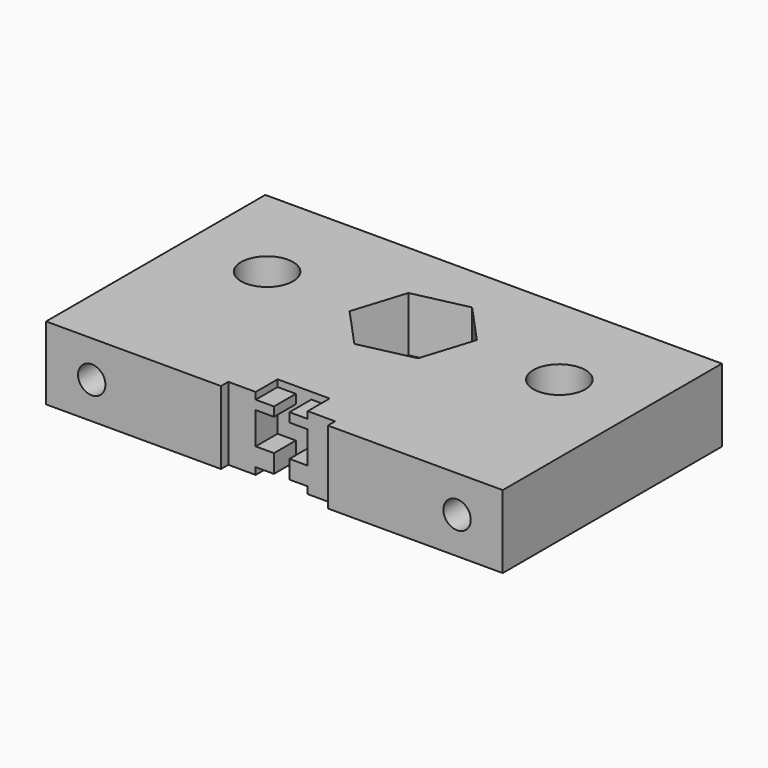
from build123d import *

# Parameters (mm, degrees)
F0_W      = 50
F0_H      = 30
F1_DEPTH  = 8
F2_R      = 2.85
F3_DEPTH  = 8
F4_R      = 1.5
F5_DEPTH  = 3
F6_DEPTH  = 4
F7_DEPTH  = 1
F8_R      = 6.75
F9_DEPTH  = 2
F11_DEPTH = 6


with BuildPart() as f1:
    # F0 (on Top) → F1 (new body)
    with BuildSketch(Plane.XY):
        with Locations((25, 15)):
            Rectangle(F0_W, F0_H)
    extrude(amount=F1_DEPTH)

    # F2 (on face) → F3 (cut)
    with BuildSketch(Plane.XY.offset(8)):
        with Locations((41, 19)):
            Circle(F2_R)
        with Locations((9, 19)):
            Circle(F2_R)
    extrude(amount=-F3_DEPTH, mode=Mode.SUBTRACT)

    # F4 (on face) → F5 (cut)
    with BuildSketch(Plane.XZ):
        with Locations((5, 4)):
            Circle(F4_R)
        with Locations((45, 4)):
            Circle(F4_R)
    extrude(amount=-F5_DEPTH, mode=Mode.SUBTRACT)

    # F4 (on face) → F6 (cut)
    with BuildSketch(Plane.XZ):
        Polygon((22.15, 0.75), (22.15, 0), (27.85, 0), (27.85, 0.75), (25.85, 0.75), (25.85, 2.75), (27.85, 2.75), (27.85, 6.25), (25.85, 6.25), (25.85, 7.25), (27.85, 7.25), (27.85, 8), (22.15, 8), (22.15, 7.25), (24.15, 7.25), (24.15, 6.25), (22.15, 6.25), (22.15, 2.75), (24.15, 2.75), (24.15, 0.75), align=None)
    extrude(amount=-F6_DEPTH, mode=Mode.SUBTRACT)

    # F4 (on face) → F7 (cut)
    with BuildSketch(Plane.XZ):
        Polygon((19.15, 8), (19.15, 0), (22.15, 0), (22.15, 0.75), (24.15, 0.75), (24.15, 2.75), (22.15, 2.75), (22.15, 6.25), (24.15, 6.25), (24.15, 7.25), (22.15, 7.25), (22.15, 8), align=None)
        Polygon((27.85, 0.75), (27.85, 0), (30.85, 0), (30.85, 8), (27.85, 8), (27.85, 7.25), (25.85, 7.25), (25.85, 6.25), (27.85, 6.25), (27.85, 2.75), (25.85, 2.75), (25.85, 0.75), align=None)
    extrude(amount=-F7_DEPTH, mode=Mode.SUBTRACT)

    # F8 (on face) → F9 (cut)
    with BuildSketch(Plane(origin=(0, 0, 0), x_dir=(1, 0, 0), z_dir=(0, 0, -1))):
        with Locations((25, -19)):
            Circle(F8_R)
    extrude(amount=-F9_DEPTH, mode=Mode.SUBTRACT)

    # F10 (on face) → F11 (cut)
    with BuildSketch(Plane(origin=(0, 0, 2), x_dir=(1, 0, 0), z_dir=(0, 0, -1))):
        Polygon((30.918031, -20.31412), (29.097077, -14.531895), (23.179046, -13.217775), (19.081969, -17.68588), (20.902923, -23.468105), (26.820954, -24.782225), align=None)
    extrude(amount=-F11_DEPTH, mode=Mode.SUBTRACT)


solid = f1.part
